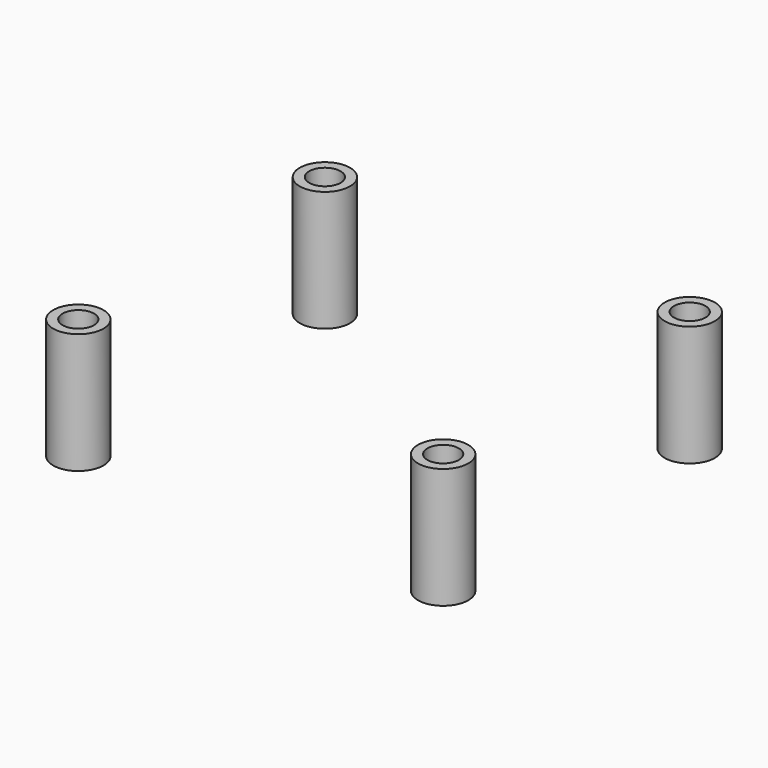
from build123d import *

# Parameters (mm, degrees)
TUBE001_R     = 4
TUBE001_R_2   = 2.5
TUBE001_DEPTH = 19.15
TUBE002_R     = 4
TUBE002_R_2   = 2.5
TUBE002_DEPTH = 19.15
TUBE003_R     = 4
TUBE003_R_2   = 2.5
TUBE003_DEPTH = 19.15
TUBE_R        = 4
TUBE_R_2      = 2.5
TUBE_DEPTH    = 19.15


with BuildPart() as spacer001:
    # Tube001 → Tube001 (new body)
    with BuildSketch(Plane(origin=(-39, -24.5, 0), x_dir=(1, 0, 0), z_dir=(0, 0, 1))):
        Circle(TUBE001_R)
        Circle(TUBE001_R_2, mode=Mode.SUBTRACT)
    extrude(amount=TUBE001_DEPTH)


with BuildPart() as spacer002:
    # Tube002 → Tube002 (new body)
    with BuildSketch(Plane(origin=(-39, 24.5, 0), x_dir=(1, 0, 0), z_dir=(0, 0, 1))):
        Circle(TUBE002_R)
        Circle(TUBE002_R_2, mode=Mode.SUBTRACT)
    extrude(amount=TUBE002_DEPTH)


with BuildPart() as spacer003:
    # Tube003 → Tube003 (new body)
    with BuildSketch(Plane(origin=(19, 24.5, 0), x_dir=(1, 0, 0), z_dir=(0, 0, 1))):
        Circle(TUBE003_R)
        Circle(TUBE003_R_2, mode=Mode.SUBTRACT)
    extrude(amount=TUBE003_DEPTH)


with BuildPart() as spacers:
    # Tube → Tube (new body)
    with BuildSketch(Plane(origin=(19, -24.5, 0), x_dir=(1, 0, 0), z_dir=(0, 0, 1))):
        Circle(TUBE_R)
        Circle(TUBE_R_2, mode=Mode.SUBTRACT)
    extrude(amount=TUBE_DEPTH)

    # Fusion001: union Spacer001, Spacer002, Spacer003
    add(spacer001.part)
    add(spacer002.part)
    add(spacer003.part)


with BuildPart() as spacers_1:
    # Fusion001 placement: moved
    add(spacers.part.moved(Location((0, 0, -19.15))))


solid = spacers_1.part
